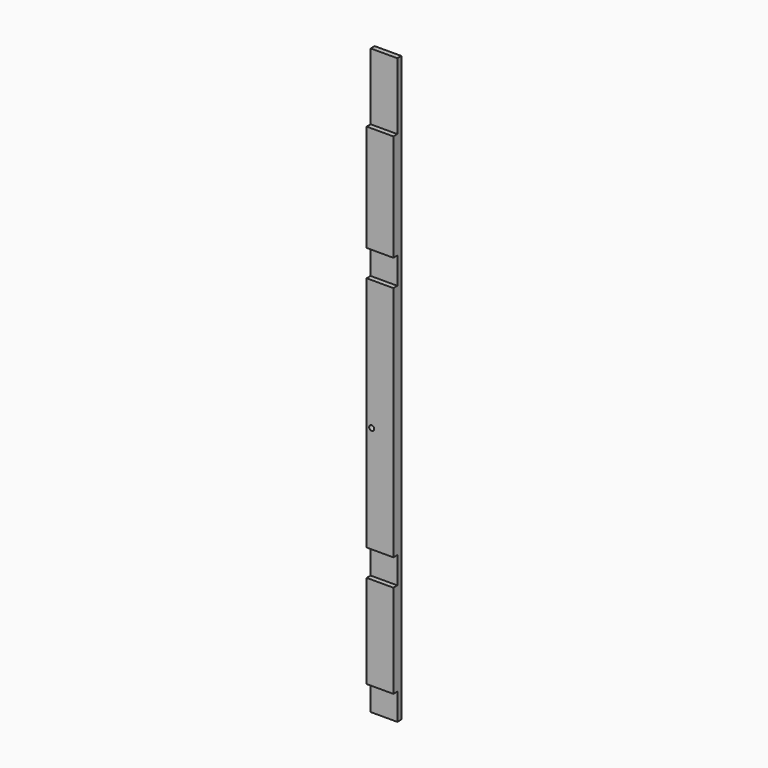
from build123d import *

# Parameters (mm, degrees)
F0_W     = 50.8
F0_H     = 19.05
F1_DEPTH = 1111.25
F2_W     = 122.435573
F2_H     = 50.8
F2_W_2   = 93.867282
F2_W_3   = 343.160421
F2_H_2   = 127
F2_W_4   = 239.549167
F3_DEPTH = 25.4
F4_R     = 4.7625
F5_DEPTH = 25.4


with BuildPart() as f1:
    # F0 (on Top) → F1 (new body)
    with BuildSketch(Plane.XY):
        Rectangle(F0_W, F0_H)
    extrude(amount=F1_DEPTH)

    # F2 (on Front) → F3 (cut)
    with BuildSketch(Plane.XZ):
        with Locations((22.446524, 25.4)):
            Rectangle(F2_W, F2_H)
        with Locations((2.720783, 755.65)):
            Rectangle(F2_W_2, F2_H)
        with Locations((-38.781822, 1047.75)):
            Rectangle(F2_W_3, F2_H_2)
        with Locations((-25.794175, 254)):
            Rectangle(F2_W_4, F2_H)
    extrude(amount=F3_DEPTH, mode=Mode.SUBTRACT)

    # F4 (on Front) → F5 (cut)
    with BuildSketch(Plane.XZ):
        with Locations((-15.875, 254)):
            Circle(F4_R)
        with Locations((-15.875, 482.6)):
            Circle(F4_R)
    extrude(amount=F5_DEPTH, mode=Mode.SUBTRACT)


solid = f1.part
